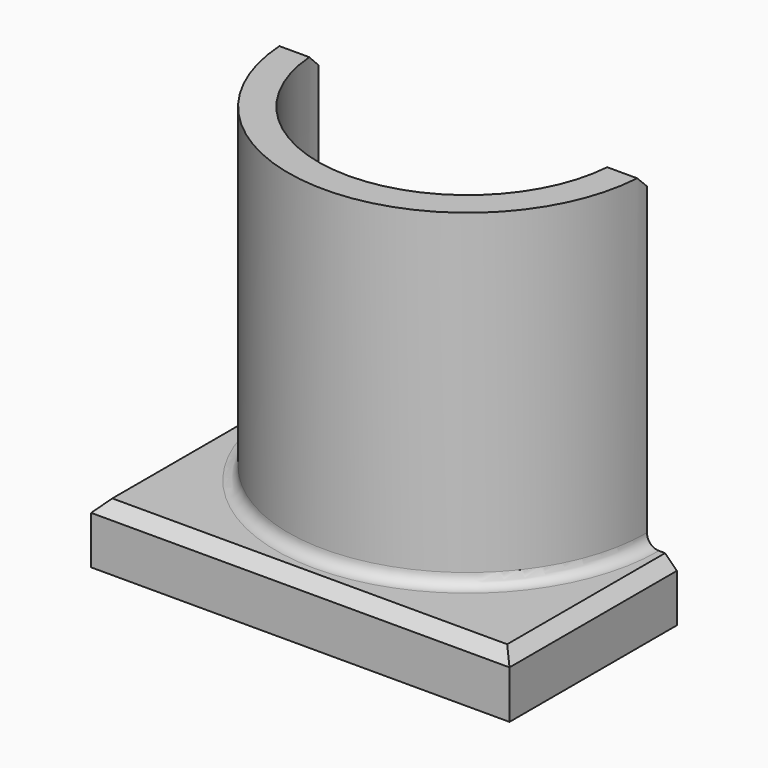
from build123d import *

# Parameters (mm, degrees)
PAD_DEPTH    = 33.02
PAD001_DEPTH = 5.08
FILLET_R     = 1.016
CHAMFER_SIZE = 1


with BuildPart() as part:
    # Sketch001 → Pad (new body)
    with BuildSketch(Plane.XY):
        with BuildLine():
            ThreePointArc((-12.7, 0), (0, -12.7), (12.7, 0))
            Line((12.7, 0), (15.24, 0))
            ThreePointArc((-15.24, 0), (0, -15.24), (15.24, 0))
            Line((-15.24, 0), (-12.7, 0))
        make_face()
    extrude(amount=PAD_DEPTH)

    # Sketch → Pad001 (join)
    with BuildSketch(Plane.XY):
        with BuildLine():
            Line((-17.78, 0), (-17.78, -17.78))
            Line((-17.78, -17.78), (17.78, -17.78))
            Line((17.78, -17.78), (17.78, 0))
            Line((12.7, 0), (17.78, 0))
            ThreePointArc((-12.7, 0), (0, -12.7), (12.7, 0))
            Line((-17.78, 0), (-12.7, 0))
        make_face()
    extrude(amount=PAD001_DEPTH)

    # Fillet
    fillet_edges = [part.edges().sort_by_distance(p)[0] for p in [
        (0, -15.24, 5.08),
    ]]
    fillet(fillet_edges, radius=FILLET_R)

    # Chamfer
    chamfer_edges = [part.edges().sort_by_distance(p)[0] for p in [
        (-13.97, 0, 33.02),
        (13.97, 0, 33.02),
        (-17.78, -8.89, 5.08),
        (17.78, -8.89, 5.08),
        (0, -17.78, 5.08),
    ]]
    chamfer(chamfer_edges, length=CHAMFER_SIZE)


solid = part.part
